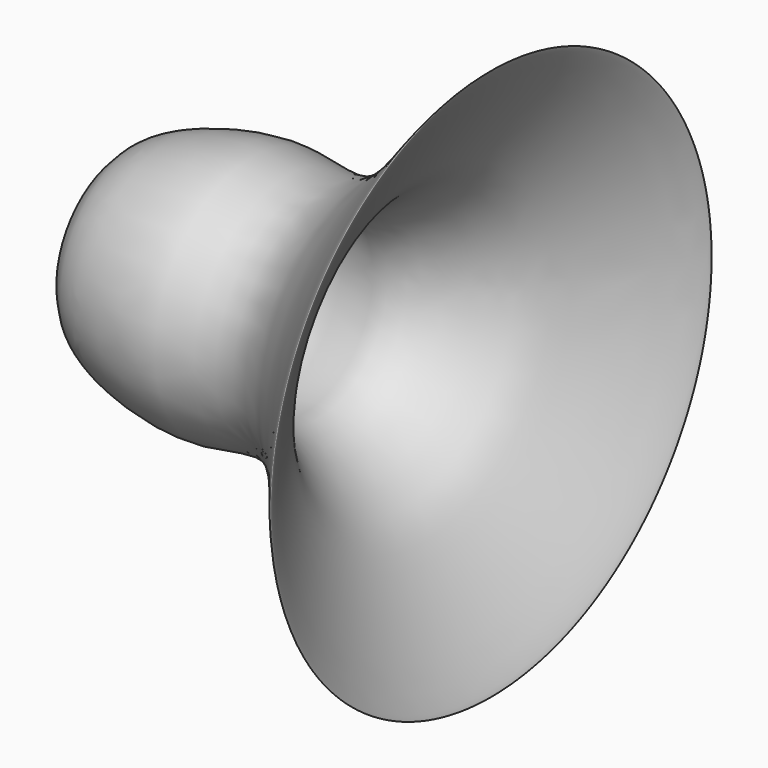
from build123d import *


with BuildPart() as f1:
    # F0 (on Top) → F1 (revolve)
    with BuildSketch(Plane.XY):
        with BuildLine():
            add(Edge.make_bspline(
                [(-25.8124957243, 12), (-24.9374647228, 13.1377009765), (-22.0507097421, 15.6811177072), (-6.2298594701, 19.9731423152), (7.5248748031, 12.2452315088), (36.2160540583, 52.9339809114), (17.8312512613, 23.394693787), (15.5630567382, 20.5276510009), (3.5690175016, 10.3854747287), (-6.8477058103, 15.4166479855), (-18.8383118663, 12.4342443567), (-22.1533474808, 10.8394193887), (-22.3483941091, 10)],
                knots=[0, 0, 0, 0, 0.0643729549, 0.1768071613, 0.289554719, 0.4461501304, 0.5677716401, 0.6413543872, 0.746355104, 0.8429980123, 0.9444231164, 1, 1, 1, 1], degree=3))
            Line((-25.8124957243, 12), (-22.3483941091, 10))
        make_face()
    revolve(axis=Axis((-0.312501168, 0, 0), (1, 0, 0)))


solid = f1.part
